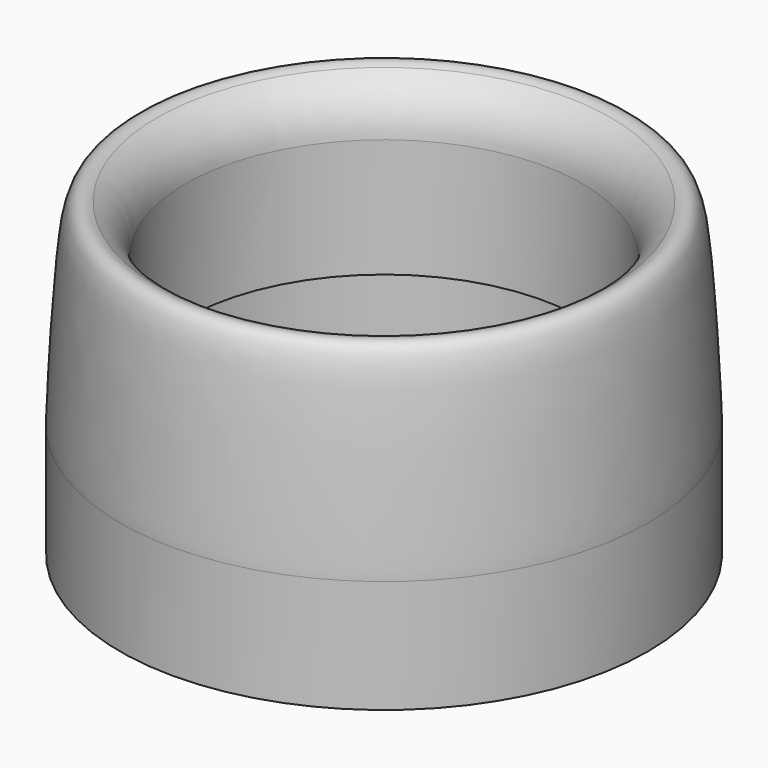
from build123d import *


with BuildPart() as f1:
    # F0 (on Front) → F1 (revolve)
    with BuildSketch(Plane.XZ):
        with BuildLine():
            Line((35.2, 21), (35.2, 0))
            Line((35.2, 0), (36.7, -0.2))
            Line((36.7, -0.2), (36.7, -25.2))
            Line((36.7, -25.2), (46.7, -25.2))
            Line((46.7, -25.2), (46.7, -5.2))
            add(Edge.make_bspline(
                [(40.2, 29.6602540378), (41.2535322891, 30.2793717629), (43.9939234613, 30.1539923233), (45.5662337366, 21.1544722527), (46.7, -1.8974630171), (46.7, -5.2)],
                knots=[0, 0, 0, 0, 0.1698510181, 0.4758724969, 1, 1, 1, 1], degree=3))
            ThreePointArc((40.2, 29.6602540378), (36.5397459622, 26), (35.2, 21))
        make_face()
    revolve(axis=Axis((0, 0, 22.5353781134), (0, 0, 1)))


solid = f1.part
